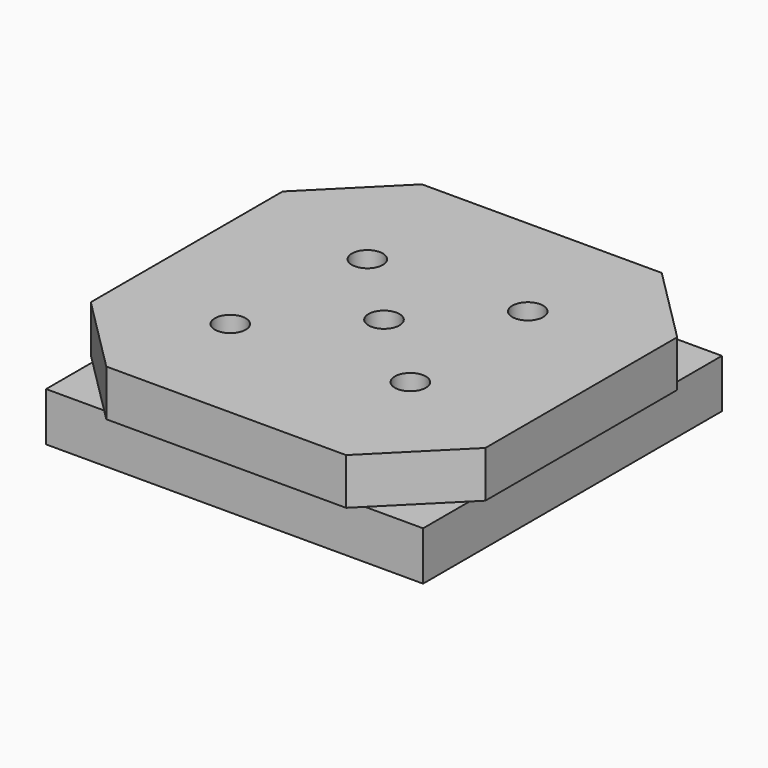
from build123d import *

# Parameters (mm, degrees)
F0_W      = 64.756296
F0_H      = 64.756296
F1_DEPTH  = 7.62
F2_SIZE   = 12.7
F3_SIZE   = 12.7
F4_SIZE   = 12.7
F5_SIZE   = 12.7
F12_D     = 5.08
F13_D     = 5.08
F14_D     = 5.08
F15_D     = 5.08
F6_W      = 61.878238
F6_H      = 61.302628
F16_DEPTH = 8
F17_SIZE  = 9


with BuildPart() as f1:
    # F0 (on Top) → F1 (new body)
    with BuildSketch(Plane.XY):
        Rectangle(F0_W, F0_H)
    extrude(amount=F1_DEPTH)

    # F2
    f2_edges = [f1.edges().sort_by_distance(p)[0] for p in [
        (32.378148, -32.378148, 3.81),
    ]]
    chamfer(f2_edges, length=F2_SIZE)

    # F3
    f3_edges = [f1.edges().sort_by_distance(p)[0] for p in [
        (-32.378148, 32.378148, 3.81),
    ]]
    chamfer(f3_edges, length=F3_SIZE)

    # F4
    f4_edges = [f1.edges().sort_by_distance(p)[0] for p in [
        (-32.378148, -32.378148, 3.81),
    ]]
    chamfer(f4_edges, length=F4_SIZE)

    # F5
    f5_edges = [f1.edges().sort_by_distance(p)[0] for p in [
        (32.378148, 32.378148, 3.81),
    ]]
    chamfer(f5_edges, length=F5_SIZE)

    # F12 (through all)
    with Locations(Plane(origin=(0, 0, 0), x_dir=(1, 0, 0), z_dir=(0, 0, -1))):
        with Locations((13.451747, 11.412409)):
            Hole(F12_D / 2)

    # F13 (through all)
    with Locations(Plane(origin=(0, 0, 0), x_dir=(1, 0, 0), z_dir=(0, 0, -1))):
        with Locations((12.937722, -13.321196)):
            Hole(F13_D / 2)

    # F14 (through all)
    with Locations(Plane(origin=(0, 0, 0), x_dir=(1, 0, 0), z_dir=(0, 0, -1))):
        with Locations((0, 0)):
            Hole(F14_D / 2)

    # F15 (through all)
    with Locations(Plane(origin=(0, 0, 0), x_dir=(1, 0, 0), z_dir=(0, 0, -1))):
        with Locations((-12.155064, -11.785694), (-14.640464, 13.230935)):
            Hole(F15_D / 2)

    # F6 (on Top) → F16 (join)
    with BuildSketch(Plane.XY):
        Rectangle(F6_W, F6_H)
    extrude(amount=-F16_DEPTH)

    # F17
    f17_edges = [f1.edges().sort_by_distance(p)[0] for p in [
        (-30.939119, 30.651314, -4),
    ]]
    chamfer(f17_edges, length=F17_SIZE)


solid = f1.part
